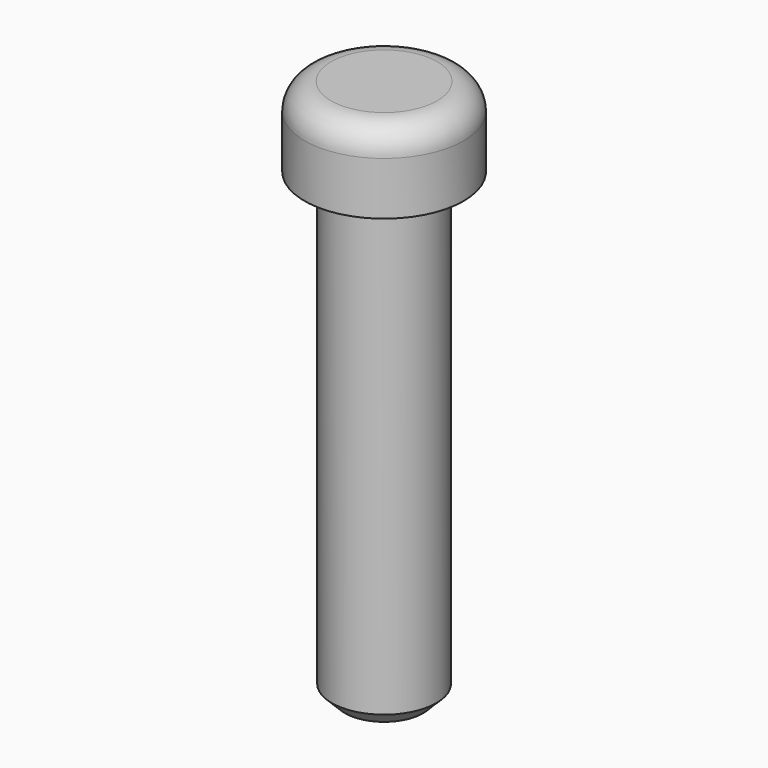
from build123d import *

# Parameters (mm, degrees)
F0_R     = 5.0038
F1_DEPTH = 44.45
F2_R     = 7.62
F2_R_2   = 5.0038
F3_DEPTH = 7.62
F4_R     = 2.54
F5_SIZE  = 1.27


with BuildPart() as f1:
    # F0 (on Top) → F1 (new body)
    with BuildSketch(Plane.XY):
        Circle(F0_R)
    extrude(amount=F1_DEPTH)

    # F2 (on face) → F3 (join)
    with BuildSketch(Plane.XY.offset(44.45)):
        Circle(F2_R)
        Circle(F2_R_2, mode=Mode.SUBTRACT)
        Circle(F2_R_2)
    extrude(amount=F3_DEPTH)

    # F4
    f4_edges = [f1.edges().sort_by_distance(p)[0] for p in [
        (-7.62, 0, 52.07),
    ]]
    fillet(f4_edges, radius=F4_R)

    # F5
    f5_edges = [f1.edges().sort_by_distance(p)[0] for p in [
        (-5.0038, 0, 0),
    ]]
    chamfer(f5_edges, length=F5_SIZE)


solid = f1.part
